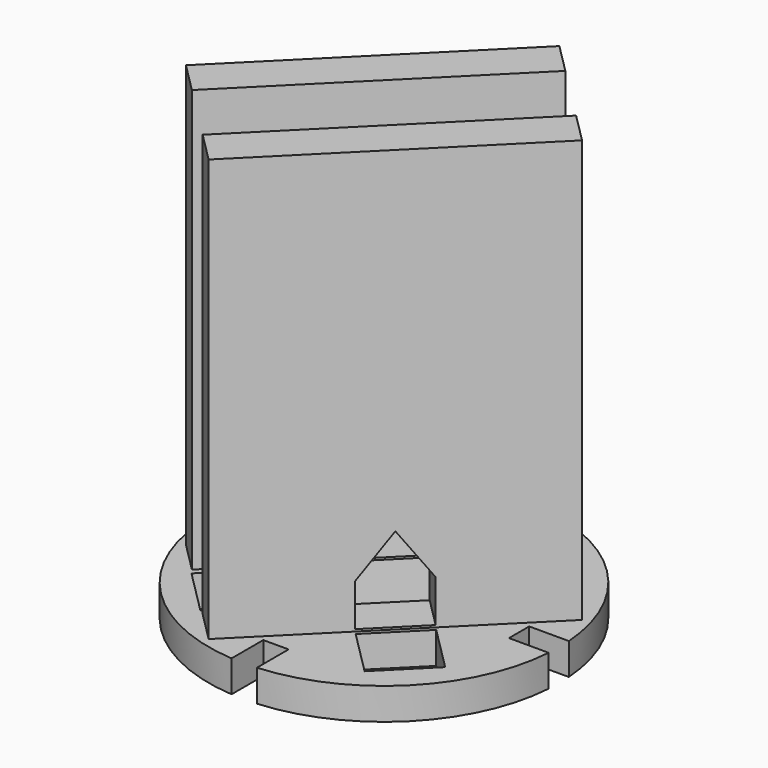
from build123d import *

# Parameters (mm, degrees)
SKETCH052_R     = 16.6
PAD033_DEPTH    = 3
SKETCH053_W     = 4.4
SKETCH053_H     = 2.4
SKETCH053_W_2   = 2.4
SKETCH053_H_2   = 4.4
POCKET019_DEPTH = 5
PAD034_DEPTH    = 40
POCKET020_DEPTH = 31.0155254063


with BuildPart() as part:
    # Sketch052 (on Face35 of Binder010) → Pad033 (new body)
    with BuildSketch(Plane.XY.offset(6.2)):
        with Locations((-83.6396103068, 83.6396103068)):
            Circle(SKETCH052_R)
    extrude(amount=PAD033_DEPTH)

    # Sketch053 (on Face35 of Binder010) → Pocket019 (cut)
    with BuildSketch(Plane.XY.offset(6.2)):
        Polygon((-91.4177848998, 95.660425587), (-95.660425587, 91.4177848998), (-91.4177848998, 87.1751442127), (-87.1751442127, 91.4177848998), align=None)
        Polygon((-80.1040764009, 91.4177848998), (-75.8614357137, 95.660425587), (-71.6187950266, 91.4177848998), (-75.8614357137, 87.1751442127), align=None)
        Polygon((-75.8614357137, 80.1040764009), (-71.6187950266, 75.8614357137), (-75.8614357137, 71.6187950266), (-80.1040764009, 75.8614357137), align=None)
        Polygon((-87.1751442127, 75.8614357137), (-91.4177848998, 80.1040764009), (-95.660425587, 75.8614357137), (-91.4177848998, 71.6187950266), align=None)
        with Locations((-98.6396103068, 83.6396103068)):
            Rectangle(SKETCH053_W, SKETCH053_H)
        with Locations((-83.6396103068, 68.6414357137)):
            Rectangle(SKETCH053_W_2, SKETCH053_H_2)
        with Locations((-68.6414357137, 83.6396103068)):
            Rectangle(SKETCH053_W, SKETCH053_H)
        with Locations((-83.6396103068, 98.6396103068)):
            Rectangle(SKETCH053_W_2, SKETCH053_H_2)
    extrude(amount=POCKET019_DEPTH, mode=Mode.SUBTRACT)

    # Sketch054 (on Face4 of Pocket019) → Pad034 (join)
    with BuildSketch(Plane.XY.offset(9.2)):
        Polygon((-79.1848375853, 98.8424061023), (-98.8424061023, 79.1848375853), (-96.0139789776, 76.3564104606), (-76.3564104606, 96.0139789776), align=None)
        Polygon((-71.265241636, 90.922810153), (-90.922810153, 71.265241636), (-88.0943830283, 68.4368145113), (-68.4368145113, 88.0943830283), align=None)
    extrude(amount=PAD034_DEPTH)

    # Sketch055 (on Face39 of Pad034) → Pocket020 (cut, through all)
    with BuildSketch(Plane(origin=(-89.0136218438, 89.0136218438, 0), x_dir=(-0.7071067812, -0.7071067812, 0), z_dir=(-0.7071067812, 0.7071067812, 0))):
        Polygon((-3, 9.4), (3, 9.4), (3, 13.4), (0, 17.4), (-3, 13.4), align=None)
    extrude(amount=-POCKET020_DEPTH, mode=Mode.SUBTRACT)


solid = part.part
